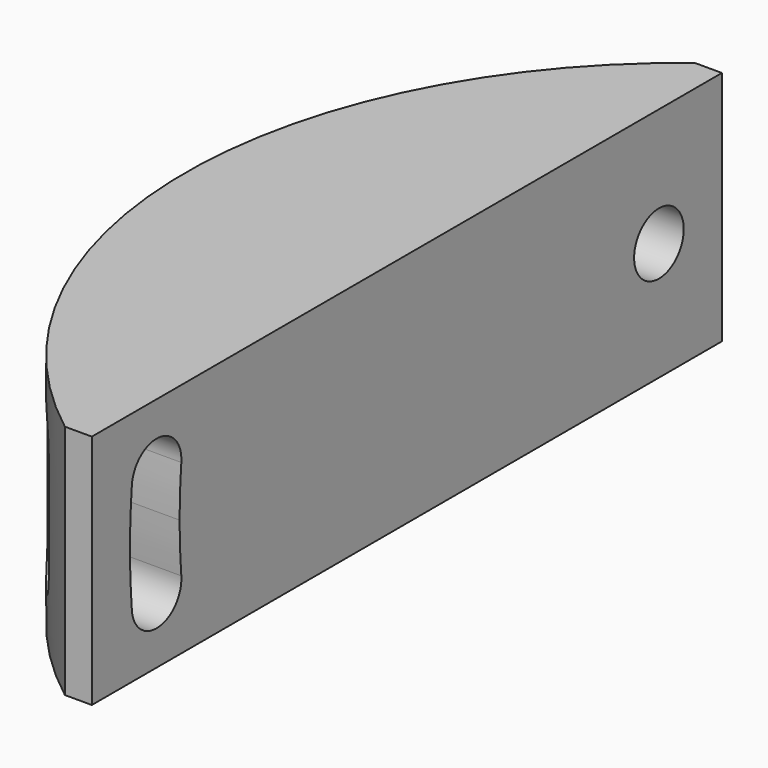
from build123d import *

# Parameters (mm, degrees)
F1_DEPTH = 19.05
F3_DEPTH = 25.4
F4_D     = 5
F4_DEPTH = 15.6972
F4_TIP   = 1.5021515476


with BuildPart() as f1:
    # F0 (on Top) → F1 (new body)
    with BuildSketch(Plane.XY):
        with BuildLine():
            Line((-22.0673531294, 31.75), (-24.2402065279, 31.75))
            ThreePointArc((-24.2402065279, 31.75), (-39.9455894, 0), (-24.2402065279, -31.75))
            Line((-24.2402065279, -31.75), (-22.0673531294, -31.75))
            Line((-22.0673531294, -31.75), (-22.0673531294, 31.75))
        make_face()
    extrude(amount=F1_DEPTH)

    # F2 (on face) → F3 (cut)
    with BuildSketch(Plane.YZ.offset(-22.0673531294)):
        with BuildLine():
            ThreePointArc((-27.7153407028, 13.9654662391), (-27.8542875294, 11.747165191), (-27.90063, 9.525))
            Line((-27.90063, 9.525), (-22.89937, 9.525))
            ThreePointArc((-22.89937, 9.525), (-22.8573758972, 11.538656851), (-22.7314666127, 13.5488121361))
            ThreePointArc((-22.7314666127, 13.5488121361), (-25.0150766063, 16.2490762326), (-27.7153407028, 13.9654662391))
        make_face()
        with BuildLine():
            Line((-22.89937, 9.525), (-27.90063, 9.525))
            ThreePointArc((-27.90063, 9.525), (-27.8542875294, 7.302834809), (-27.7153407028, 5.0845337609))
            ThreePointArc((-27.7153407028, 5.0845337609), (-25.0150766063, 2.8009237674), (-22.7314666127, 5.5011878639))
            ThreePointArc((-22.7314666127, 5.5011878639), (-22.8573758972, 7.511343149), (-22.89937, 9.525))
        make_face()
    extrude(amount=-F3_DEPTH, mode=Mode.SUBTRACT)

    # F4
    with Locations(Plane.YZ.offset(-22.0673531294)):
        with Locations((25.4, 9.525)):
            Hole(F4_D / 2, depth=F4_DEPTH)
            with Locations((0, 0, -(F4_DEPTH + F4_TIP / 2))):  # 118° drill point
                Cone(0, F4_D / 2, F4_TIP, mode=Mode.SUBTRACT)


solid = f1.part
